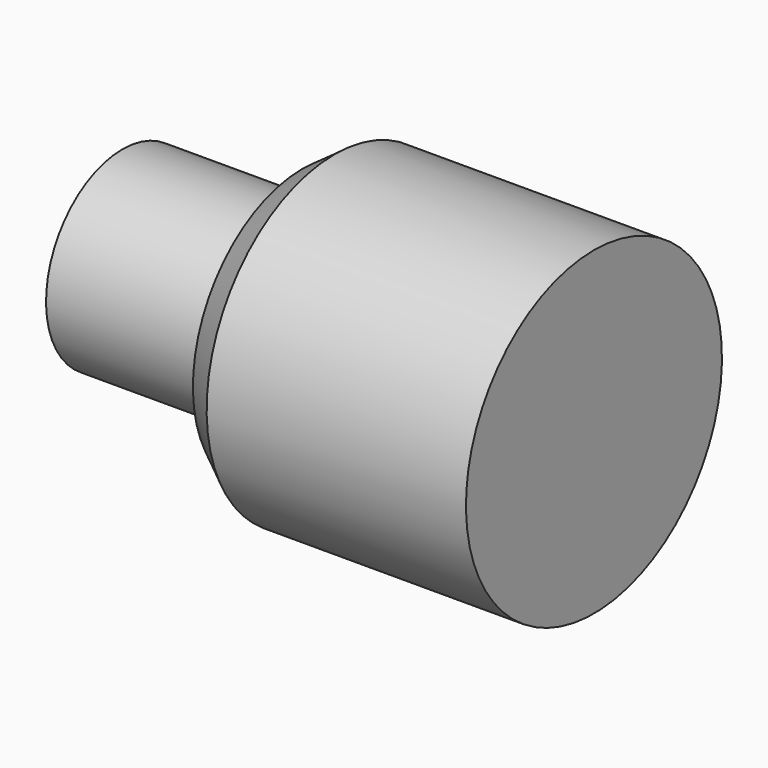
from build123d import *


with BuildPart() as f1:
    # F0 (on Front) → F1 (revolve)
    with BuildSketch(Plane.XZ):
        Polygon((0, 24.465741), (0, 0), (111.038732, 0), (111.038732, 32.230687), (95.25, 32.230687), (95.25, 24.465741), align=None)
    revolve(axis=Axis((0, 0, 0), (1, 0, 0)))


with BuildPart() as f3:
    # F2 (on Front) → F3 (revolve)
    with BuildSketch(Plane.XZ):
        Polygon((111.038732, 32.230687), (111.038732, 0), (120.911948, 0), (120.911948, 41.022934), (54.420561, 41.022934), (46.067923, 34.978263), (46.067923, 29.263303), (51.453177, 29.263303), (57.607751, 32.230687), align=None)
    revolve(axis=Axis((0, 0, 0), (1, 0, 0)))


solid = Compound([f1.part, f3.part])
